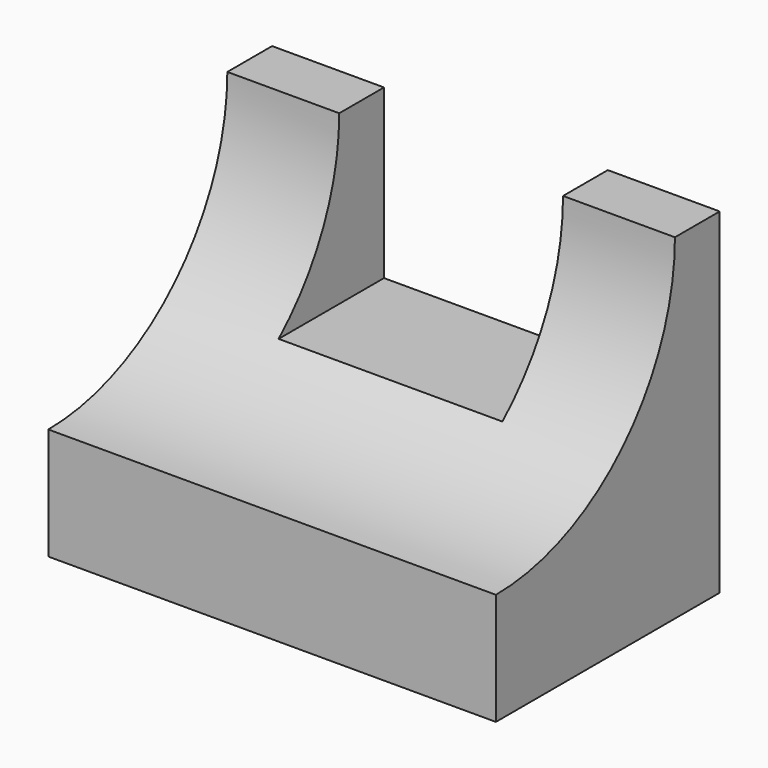
from build123d import *

# Parameters (mm, degrees)
F0_W     = 50.8
F0_H     = 38.1
F1_DEPTH = 31.75
F3_DEPTH = 50.8
F4_W     = 25.4
F4_H     = 19.05
F5_DEPTH = 19.05


with BuildPart() as f1:
    # F0 (on Front) → F1 (new body)
    with BuildSketch(Plane.XZ):
        with Locations((25.4, 19.05)):
            Rectangle(F0_W, F0_H)
    extrude(amount=F1_DEPTH)

    # F2 (on face) → F3 (cut)
    with BuildSketch(Plane.YZ.offset(50.8)):
        with BuildLine():
            ThreePointArc((-31.75, 12.7), (-13.789488, 20.139488), (-6.35, 38.1))
            Line((-6.35, 38.1), (-31.75, 38.1))
            Line((-31.75, 38.1), (-31.75, 12.7))
        make_face()
        with BuildLine():
            Line((-31.75, 38.1), (-6.35, 38.1))
            ThreePointArc((-6.35, 38.1), (-49.710512, 56.060512), (-31.75, 12.7))
            Line((-31.75, 12.7), (-31.75, 38.1))
        make_face()
    extrude(amount=-F3_DEPTH, mode=Mode.SUBTRACT)

    # F4 (on face) → F5 (cut)
    with BuildSketch(Plane(origin=(0, 0, 0), x_dir=(-1, 0, 0), z_dir=(0, 1, 0))):
        with Locations((-25.4, 28.575)):
            Rectangle(F4_W, F4_H)
    extrude(amount=-F5_DEPTH, mode=Mode.SUBTRACT)


solid = f1.part
